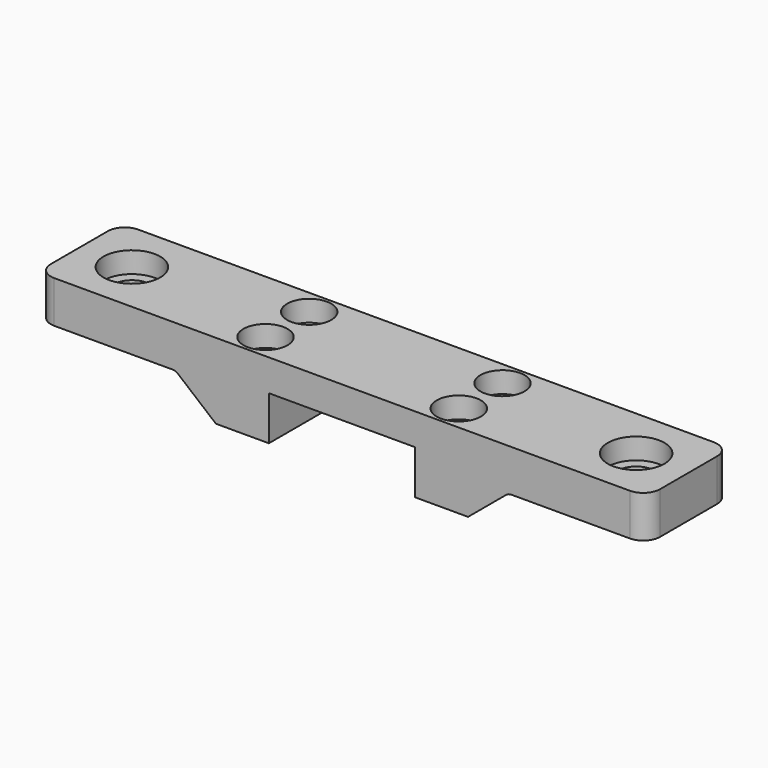
from build123d import *

# Parameters (mm, degrees)
PAD_DEPTH       = 25
SKETCH001_R     = 4.3
POCKET_DEPTH    = 18.001
SKETCH002_R     = 3.3
POCKET001_DEPTH = 18.001
FILLET_R        = 4
FILLET001_R     = 2
SKETCH003_R     = 6.75
POCKET002_DEPTH = 5
SKETCH005_R     = 5.25
POCKET004_DEPTH = 5


with BuildPart() as part:
    # Sketch → Pad (new body)
    with BuildSketch(Plane.XZ):
        Polygon((72.5, 30.4), (-72.5, 30.4), (-72.5, 20.4), (-39.6, 20.4), (-30, 12.4), (-17.4, 12.4), (-17.4, 22.9), (17.4, 22.9), (17.4, 12.4), (30, 12.4), (39.6, 20.4), (72.5, 20.4), align=None)
    extrude(amount=PAD_DEPTH)

    # Sketch001 (on Face10 of Pad) → Pocket (cut, through all)
    with BuildSketch(Plane(origin=(0, 0, 30.4), x_dir=(-1, 0, 0), z_dir=(0, 0, 1))):
        with Locations((-60, 12.5)):
            Circle(SKETCH001_R)
        with Locations((60, 12.5)):
            Circle(SKETCH001_R)
    extrude(amount=-POCKET_DEPTH, mode=Mode.SUBTRACT)

    # Sketch002 (on Face15 of Pocket) → Pocket001 (cut, through all)
    with BuildSketch(Plane(origin=(0, 0, 30.4), x_dir=(-1, 0, 0), z_dir=(0, 0, 1))):
        with Locations((-23, 6)):
            Circle(SKETCH002_R)
        with Locations((-23, 19)):
            Circle(SKETCH002_R)
        with Locations((23, 19)):
            Circle(SKETCH002_R)
        with Locations((23, 6)):
            Circle(SKETCH002_R)
    extrude(amount=-POCKET001_DEPTH, mode=Mode.SUBTRACT)

    # Fillet
    fillet_edges = [part.edges().sort_by_distance(p)[0] for p in [
        (-72.5, -25, 25.4),
        (-72.5, 0, 25.4),
        (72.5, -25, 25.4),
        (72.5, 0, 25.4),
    ]]
    fillet(fillet_edges, radius=FILLET_R)

    # Fillet001
    fillet001_edges = [part.edges().sort_by_distance(p)[0] for p in [
        (39.6, -12.5, 20.4),
        (-39.6, -12.5, 20.4),
    ]]
    fillet(fillet001_edges, radius=FILLET001_R)

    # Sketch003 (on Face13 of Fillet001) → Pocket002 (cut)
    with BuildSketch(Plane(origin=(0, 0, 30.4), x_dir=(-1, 0, 0), z_dir=(0, 0, 1))):
        with Locations((-60, 12.5)):
            Circle(SKETCH003_R)
        with Locations((60, 12.5)):
            Circle(SKETCH003_R)
    extrude(amount=-POCKET002_DEPTH, mode=Mode.SUBTRACT)

    # Sketch005 (on Face13 of Pocket002) → Pocket004 (cut)
    with BuildSketch(Plane(origin=(0, 0, 30.4), x_dir=(-1, 0, 0), z_dir=(0, 0, 1))):
        with Locations((-23, 19)):
            Circle(SKETCH005_R)
        with Locations((-23, 6)):
            Circle(SKETCH005_R)
        with Locations((23, 6)):
            Circle(SKETCH005_R)
        with Locations((23, 19)):
            Circle(SKETCH005_R)
    extrude(amount=-POCKET004_DEPTH, mode=Mode.SUBTRACT)


solid = part.part
